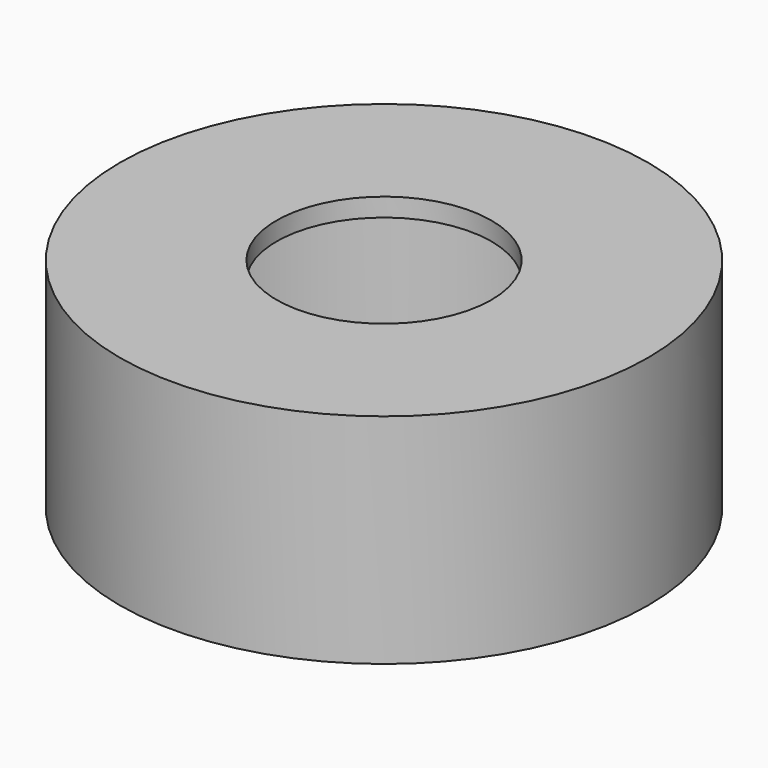
from build123d import *

# Parameters (mm, degrees)
F0_R     = 13.6525
F1_DEPTH = 11.26998
F2_R     = 11.1125
F3_DEPTH = 8.72998
F4_R     = 9.525
F5_DEPTH = 1.5875
F6_R     = 5.55625
F7_DEPTH = 11.27098


with BuildPart() as f1:
    # F0 (on Top) → F1 (new body)
    with BuildSketch(Plane.XY):
        Circle(F0_R)
    extrude(amount=F1_DEPTH)

    # F2 (on face) → F3 (cut)
    with BuildSketch(Plane(origin=(0, 0, 0), x_dir=(1, 0, 0), z_dir=(0, 0, -1))):
        Circle(F2_R)
    extrude(amount=-F3_DEPTH, mode=Mode.SUBTRACT)

    # F4 (on face) → F5 (cut)
    with BuildSketch(Plane(origin=(0, 0, 8.72998), x_dir=(1, 0, 0), z_dir=(0, 0, -1))):
        Circle(F4_R)
    extrude(amount=-F5_DEPTH, mode=Mode.SUBTRACT)

    # F6 (on face) → F7 (cut, through all)
    with BuildSketch(Plane.XY.offset(11.26998)):
        Circle(F6_R)
    extrude(amount=-F7_DEPTH, mode=Mode.SUBTRACT)


solid = f1.part
